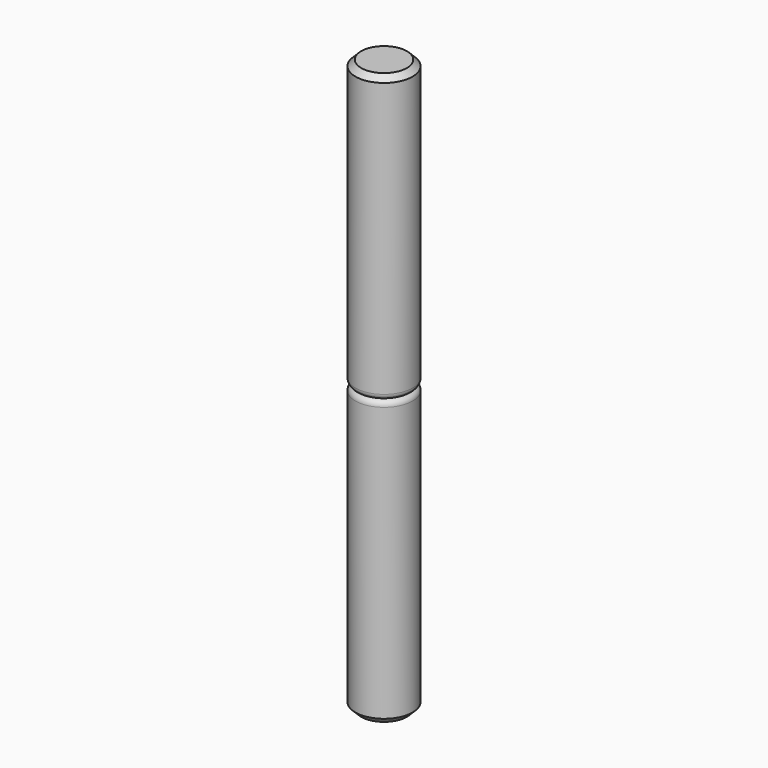
from build123d import *

# Parameters (mm, degrees)
F0_R     = 5
F1_DEPTH = 50
F2_R     = 1
F3_SIZE  = 1


with BuildPart() as f1:
    # F0 (on Top) → F1 (new body)
    with BuildSketch(Plane.XY):
        Circle(F0_R)
    extrude(amount=F1_DEPTH)

    # F2
    f2_edges = [f1.edges().sort_by_distance(p)[0] for p in [
        (-5, 0, 50),
    ]]
    fillet(f2_edges, radius=F2_R)

    # F3
    f3_edges = [f1.edges().sort_by_distance(p)[0] for p in [
        (-5, 0, 0),
    ]]
    chamfer(f3_edges, length=F3_SIZE)

    # F4: F1 across face


with BuildPart() as f1_1:
    add(f1.part)
    add(f1.part.mirror(Plane.XY.offset(50)))


solid = f1_1.part
